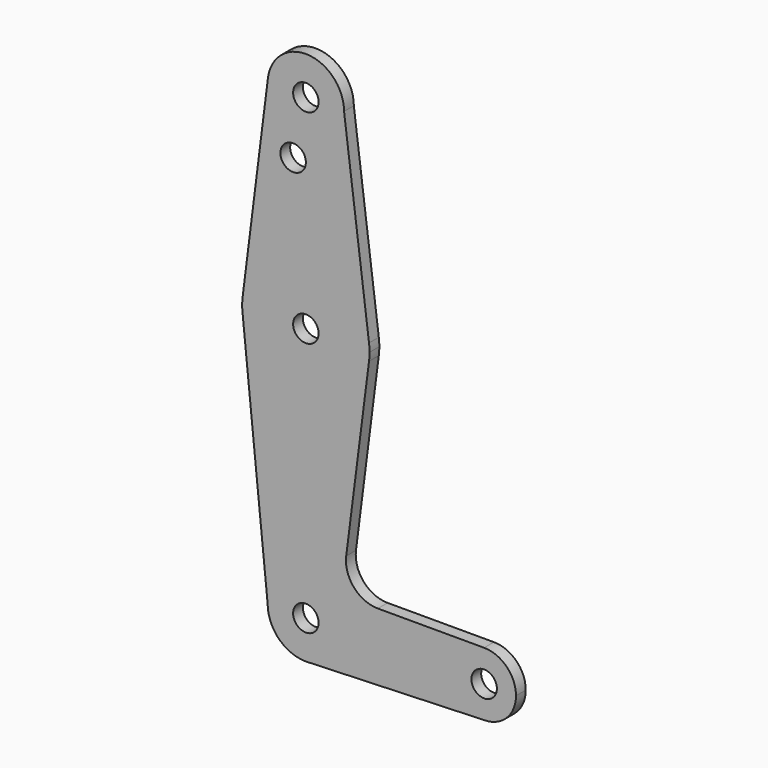
from build123d import *

# Parameters (mm, degrees)
F0_R     = 3.175
F1_DEPTH = 3.048


with BuildPart() as f1:
    # F0 (on Front) → F1 (new body)
    with BuildSketch(Plane.XZ):
        with BuildLine():
            ThreePointArc((15.747457, 61.491711), (15.843082, 62.493832), (15.875, 63.5))
            ThreePointArc((15.875, 63.5), (15.843082, 64.506168), (15.747457, 65.508289))
            ThreePointArc((15.747457, 65.508289), (0, 79.375), (-15.747457, 65.508289))
            ThreePointArc((-15.747457, 65.508289), (-15.875, 63.5), (-15.747457, 61.491711))
            ThreePointArc((-15.747457, 61.491711), (0, 47.625), (15.747457, 61.491711))
        make_face()
        with Locations((0, 63.5)):
            Circle(F0_R, mode=Mode.SUBTRACT)
        with BuildLine():
            ThreePointArc((-15.747457, 65.508289), (0, 79.375), (15.747457, 65.508289))
            Line((15.747457, 65.508289), (9.525, 114.3))
            ThreePointArc((9.525, 114.3), (-0.596482, 104.793695), (-9.450293, 115.490622))
            Line((-9.450293, 115.490622), (-15.747457, 65.508289))
        make_face()
        with Locations((-3.175, 100.0252)):
            Circle(F0_R, mode=Mode.SUBTRACT)
        with BuildLine():
            Line((10.059795, 16.893451), (15.747457, 61.491711))
            ThreePointArc((15.747457, 61.491711), (0, 47.625), (-15.747457, 61.491711))
            Line((-15.747457, 61.491711), (-9.525, 0))
            ThreePointArc((-9.525, 0), (0, 9.525), (9.525, 0))
            ThreePointArc((9.525, 0), (6.97129, -6.490511), (0.67949, -9.500732))
            Line((0.67949, -9.500732), (44.45, -7.9375))
            ThreePointArc((44.45, -7.9375), (36.5125, 0), (44.45, 7.9375))
            Line((44.45, 7.9375), (17.946122, 7.9375))
            ThreePointArc((17.946122, 7.9375), (11.979481, 10.633666), (10.059795, 16.893451))
        make_face()
        with BuildLine():
            ThreePointArc((-9.450293, 115.490622), (-0.596482, 104.793695), (9.525, 114.3))
            ThreePointArc((9.525, 114.3), (0.596482, 123.806305), (-9.450293, 115.490622))
        make_face()
        with Locations((0, 114.3)):
            Circle(F0_R, mode=Mode.SUBTRACT)
        with BuildLine():
            ThreePointArc((9.525, 0), (0, 9.525), (-9.525, 0))
            ThreePointArc((-9.525, 0), (-6.735192, -6.735192), (0, -9.525))
            Line((0, -9.525), (0.67949, -9.500732))
            ThreePointArc((0.67949, -9.500732), (6.97129, -6.490511), (9.525, 0))
        make_face()
        Circle(F0_R, mode=Mode.SUBTRACT)
        with BuildLine():
            Line((0.67949, -9.500732), (0, -9.525))
            ThreePointArc((0, -9.525), (0.339962, -9.518931), (0.67949, -9.500732))
        make_face()
        with BuildLine():
            ThreePointArc((52.3875, 0), (50.06266, 5.61266), (44.45, 7.9375))
            ThreePointArc((44.45, 7.9375), (36.5125, 0), (44.45, -7.9375))
            ThreePointArc((44.45, -7.9375), (50.06266, -5.61266), (52.3875, 0))
        make_face()
        with Locations((44.45, 0)):
            Circle(F0_R, mode=Mode.SUBTRACT)
    extrude(amount=F1_DEPTH)


solid = f1.part
